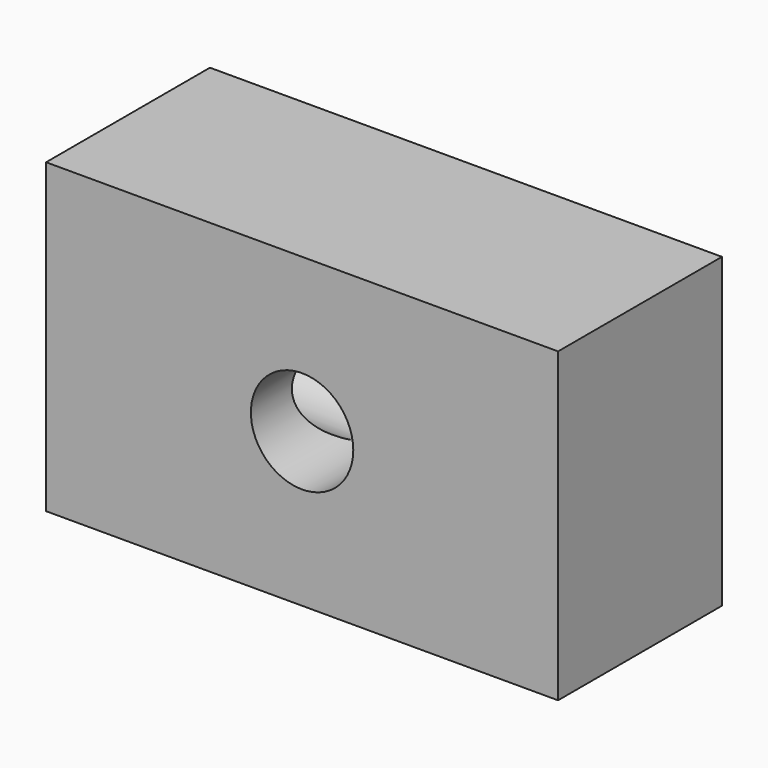
from build123d import *

# Parameters (mm, degrees)
F0_W     = 127
F0_H     = 76.2
F1_DEPTH = 50.8
F2_R     = 12.7
F3_DEPTH = 38.1
F4_R     = 12.7
F5_DEPTH = 76.2


with BuildPart() as f1:
    # F0 (on Front) → F1 (new body)
    with BuildSketch(Plane.XZ):
        Rectangle(F0_W, F0_H)
    extrude(amount=F1_DEPTH)

    # F2 (on face) → F3 (cut)
    with BuildSketch(Plane.XZ.offset(50.8)):
        Circle(F2_R)
    extrude(amount=-F3_DEPTH, mode=Mode.SUBTRACT)

    # F4 (on face) → F5 (cut)
    with BuildSketch(Plane(origin=(-63.5, 0, 0), x_dir=(0, -1, 0), z_dir=(-1, 0, 0))):
        with Locations((25.4, 0)):
            Circle(F4_R)
    extrude(amount=-F5_DEPTH, mode=Mode.SUBTRACT)


solid = f1.part
